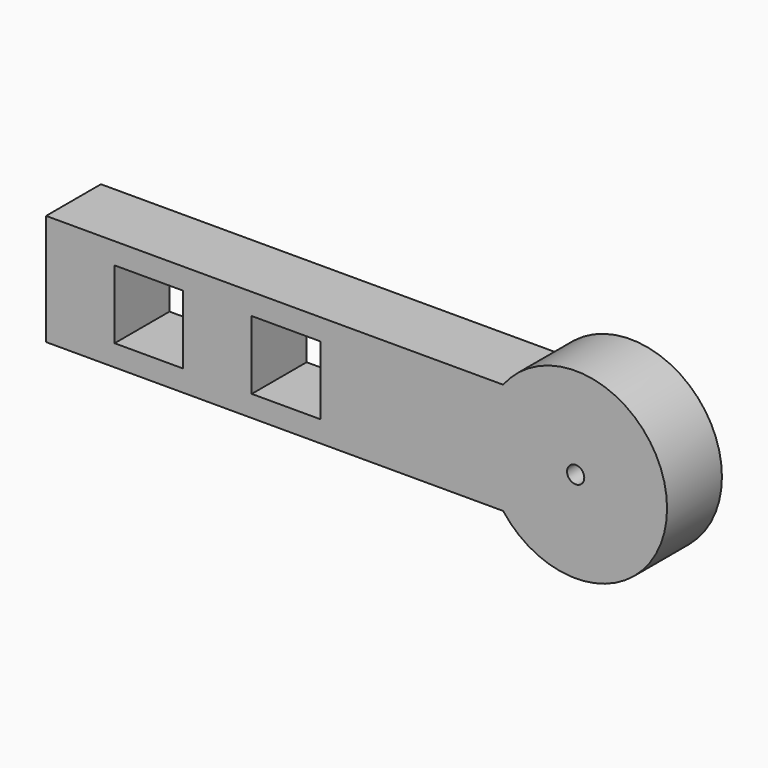
from build123d import *

# Parameters (mm, degrees)
F0_R     = 2.3876
F1_DEPTH = 19.05


with BuildPart() as f1:
    # F0 (on Front) → F1 (new body)
    with BuildSketch(Plane.XZ):
        Polygon((-19.453457, -4.832004), (-146.453457, -4.832004), (-146.453457, -20.270756), (-146.453457, -35.709507), (-19.453457, -35.709507), align=None)
        Polygon((-127.403457, -29.795756), (-127.403457, -20.270756), (-127.403457, -10.745756), (-108.353457, -10.745756), (-108.353457, -20.270756), (-108.353457, -29.795756), align=None, mode=Mode.SUBTRACT)
        Polygon((-89.303457, -29.795756), (-89.303457, -20.270756), (-89.303457, -10.745756), (-70.253457, -10.745756), (-70.253457, -20.270756), (-70.253457, -29.795756), align=None, mode=Mode.SUBTRACT)
        with BuildLine():
            ThreePointArc((-19.453457, -35.709507), (26.115949, -20.270756), (-19.453457, -4.832004))
            Line((-19.453457, -4.832004), (-19.453457, -35.709507))
        make_face()
        with Locations((0.715949, -20.270756)):
            Circle(F0_R, mode=Mode.SUBTRACT)
    extrude(amount=F1_DEPTH)


solid = f1.part
